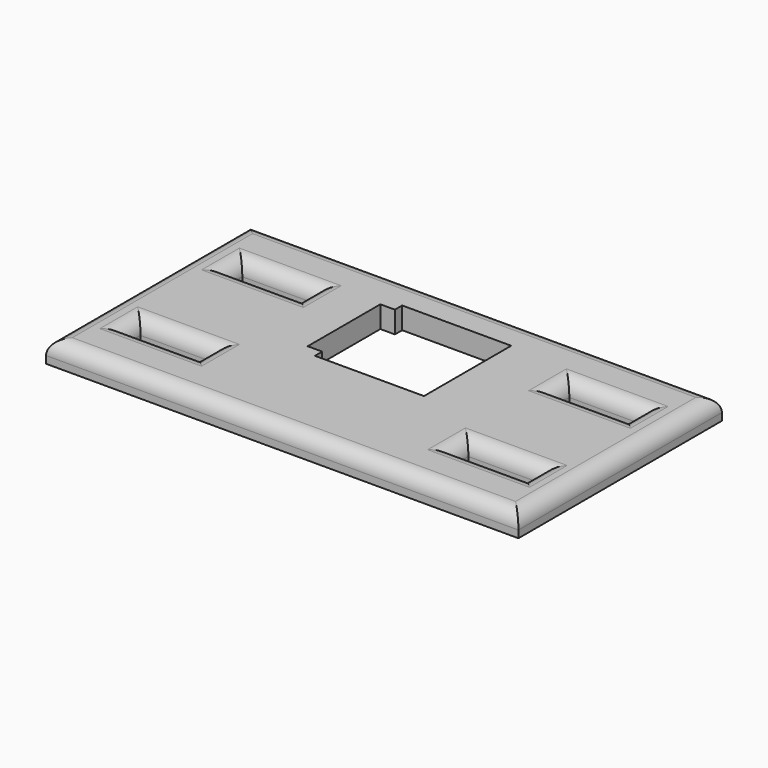
from build123d import *

# Parameters (mm, degrees)
F0_W     = 65
F0_H     = 35
F0_W_2   = 10
F0_H_2   = 2.5
F1_DEPTH = 3
F2_R     = 2


with BuildPart() as f1:
    # F0 (on Top) → F1 (new body)
    with BuildSketch(Plane.XY):
        Rectangle(F0_W, F0_H)
        with Locations((-22.5, -8.75)):
            Rectangle(F0_W_2, F0_H_2, mode=Mode.SUBTRACT)
        with Locations((22.607231, -8.749617)):
            Rectangle(F0_W_2, F0_H_2, mode=Mode.SUBTRACT)
        Polygon((7.5, -2.5), (-7.5, -2.5), (-7.5, -1.25), (-9.5, -1.25), (-9.5, 11.25), (-7.5, 11.25), (-7.5, 12.5), (7.5, 12.5), align=None, mode=Mode.SUBTRACT)
        with Locations((-22.5, 8.75)):
            Rectangle(F0_W_2, F0_H_2, mode=Mode.SUBTRACT)
        with Locations((22.5, 8.75)):
            Rectangle(F0_W_2, F0_H_2, mode=Mode.SUBTRACT)
    extrude(amount=F1_DEPTH)

    # F2
    f2_edges = [f1.edges().sort_by_distance(p)[0] for p in [
        (0, 17.5, 3),
        (-32.5, 0, 3),
        (-22.5, 10, 3),
        (-22.5, 7.5, 3),
        (-27.5, 8.75, 3),
        (-17.5, 8.75, 3),
        (-22.5, -7.5, 3),
        (-27.5, -8.75, 3),
        (-17.5, -8.75, 3),
        (-22.5, -10, 3),
        (22.607231, -9.999617, 3),
        (17.607231, -8.749617, 3),
        (22.607231, -7.499617, 3),
        (27.607231, -8.749617, 3),
        (22.5, 7.5, 3),
        (17.5, 8.75, 3),
        (22.5, 10, 3),
        (27.5, 8.75, 3),
        (32.5, 0, 3),
        (0, -17.5, 3),
    ]]
    fillet(f2_edges, radius=F2_R)


solid = f1.part
